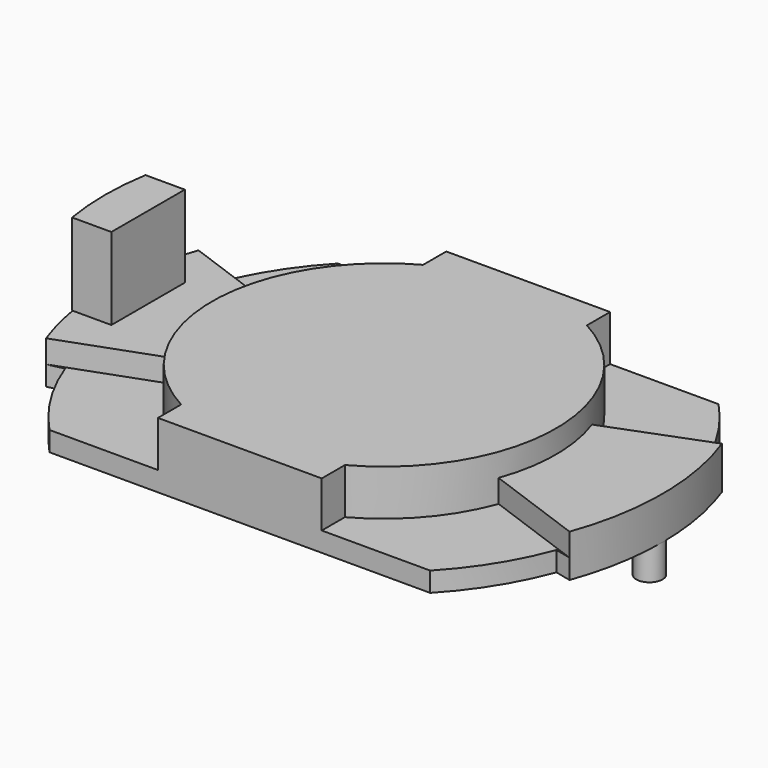
from build123d import *

# Parameters (mm, degrees)
PAD_DEPTH    = 0.6
PAD001_DEPTH = 0.7
PAD002_DEPTH = 1.4
SKETCH003_R  = 0.4
PAD003_DEPTH = 1
PAD004_DEPTH = 2.5
SKETCH005_R  = 5
POCKET_DEPTH = 1


with BuildPart() as part:
    # Sketch → Pad (new body)
    with BuildSketch(Plane.XY):
        with BuildLine():
            ThreePointArc((-7.987387, 2.907171), (-8.5, 0), (-7.987387, -2.907171))
            Line((-7.496671, -2.792834), (-7.987387, -2.907171))
            ThreePointArc((-7.496671, -2.792834), (-6.789372, -4.231363), (-5.809475, -5.5))
            Line((5.809475, -5.5), (-5.809475, -5.5))
            ThreePointArc((5.809475, -5.5), (6.789372, -4.231363), (7.496671, -2.792834))
            Line((7.496671, -2.792834), (7.987387, -2.907171))
            ThreePointArc((7.987387, -2.907171), (8.5, 0), (7.987387, 2.907171))
            Line((7.496671, 2.792834), (7.987387, 2.907171))
            ThreePointArc((7.496671, 2.792834), (6.789372, 4.231363), (5.809475, 5.5))
            Line((-5.809475, 5.5), (5.809475, 5.5))
            ThreePointArc((-5.809475, 5.5), (-6.789372, 4.231363), (-7.496671, 2.792834))
            Line((-7.987387, 2.907171), (-7.496671, 2.792834))
        make_face()
    extrude(amount=PAD_DEPTH)

    # Sketch001 (on Face14 of Pad) → Pad001 (join)
    with BuildSketch(Plane.XY.offset(0.6)):
        with BuildLine():
            ThreePointArc((-7.987387, 2.907171), (-8.5, 0), (-7.987387, -2.907171))
            Line((-3.037451, -1.105543), (-7.987387, -2.907171))
            ThreePointArc((-3.037451, 1.105543), (-3.232388, 0), (-3.037451, -1.105543))
            Line((-7.987387, 2.907171), (-3.037451, 1.105543))
        make_face()
        with BuildLine():
            ThreePointArc((7.987387, -2.907171), (8.5, 0), (7.987387, 2.907171))
            Line((3.166555, 1.05855), (7.987387, 2.907171))
            ThreePointArc((3.137447, -1.141937), (3.33851, -0.044161), (3.166555, 1.05855))
            Line((7.987387, -2.907171), (3.137447, -1.141937))
        make_face()
    extrude(amount=PAD001_DEPTH)

    # Sketch002 (on Face5 of Pad001) → Pad002 (join)
    with BuildSketch(Plane.XY.offset(0.6)):
        with BuildLine():
            Line((-2.5, 5.5), (-2.5, 4.616546))
            ThreePointArc((-2.5, 4.616546), (-5.25, 0), (-2.5, -4.616546))
            Line((-2.5, -5.5), (-2.5, -4.616546))
            Line((2.5, -5.5), (-2.5, -5.5))
            Line((2.5, -5.5), (2.5, -4.616546))
            ThreePointArc((2.5, -4.616546), (5.25, 0), (2.5, 4.616546))
            Line((2.5, 5.5), (2.5, 4.616546))
            Line((2.5, 5.5), (-2.5, 5.5))
        make_face()
    extrude(amount=PAD002_DEPTH)

    # Sketch003 → Pad003 (join)
    with BuildSketch(Plane.XY):
        with Locations((-8.1, 0)):
            Circle(SKETCH003_R)
        with Locations((8.1, 0)):
            Circle(SKETCH003_R)
    extrude(amount=-PAD003_DEPTH)

    # Sketch004 (on Face37 of Pad003) → Pad004 (join)
    with BuildSketch(Plane.XY.offset(1.3)):
        with BuildLine():
            Line((-8.4, 1.4), (-7.2, 1.4))
            Line((-7.2, 1.4), (-7.2, -1.4))
            Line((-7.2, -1.4), (-8.4, -1.4))
            ThreePointArc((-8.4, 1.4), (-8.515868, 0), (-8.4, -1.4))
        make_face()
    extrude(amount=PAD004_DEPTH)

    # Sketch005 (on Face4 of Pad004) → Pocket (cut)
    with BuildSketch(Plane(origin=(0, 0, 0), x_dir=(1, 0, 0), z_dir=(0, 0, -1))):
        Circle(SKETCH005_R)
    extrude(amount=-POCKET_DEPTH, mode=Mode.SUBTRACT)


solid = part.part
